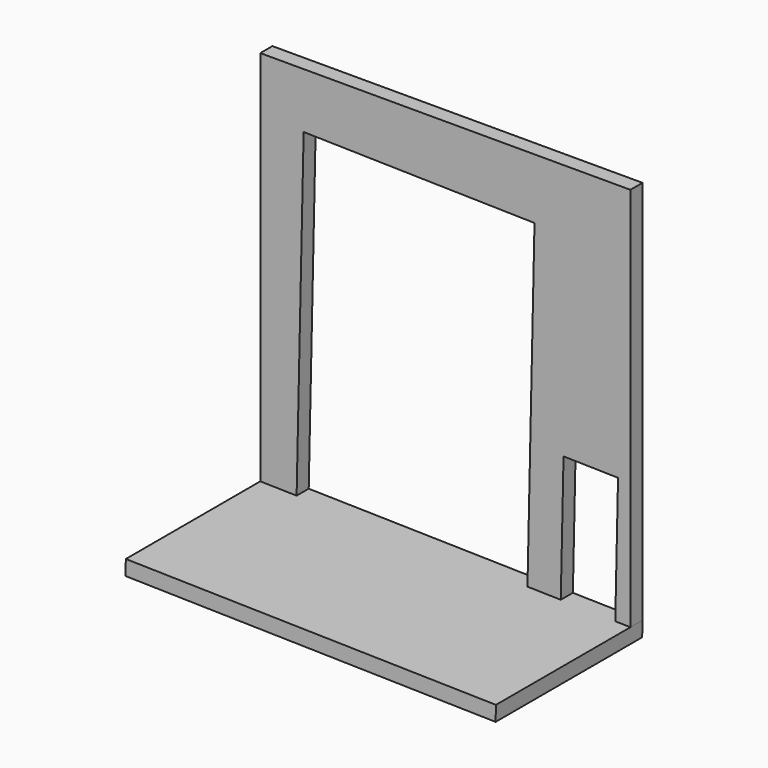
from build123d import *

# Parameters (mm, degrees)
F1_DEPTH = 254
F2_W     = 6210.3
F2_H     = 3073.4
F3_DEPTH = 254


with BuildPart() as f1:
    # F0 (on Front) → F1 (new body)
    with BuildSketch(Plane.XZ):
        Polygon((-5599.367185, 122.178627), (-5481.344294, 5531.091146), (-1608.766082, 5446.591188), (-1726.788973, 37.678669), (-1168.121952, 25.488512), (-1121.566635, 2159.088512), (-207.384237, 2139.140981), (-253.939555, 5.540981), (0, 0), (0, 6460.076981), (-6208.822117, 6460.076981), (-6208.822117, 135.476981), align=None)
    extrude(amount=F1_DEPTH)

    # F2 (on face) → F3 (join)
    with BuildSketch(Plane(origin=(0, 0, 0), x_dir=(0.999762, 0, -0.021815), z_dir=(-0.021815, 0, -0.999762))):
        with Locations((-3105.15, 1536.7)):
            Rectangle(F2_W, F2_H)
    extrude(amount=F3_DEPTH)


solid = f1.part
